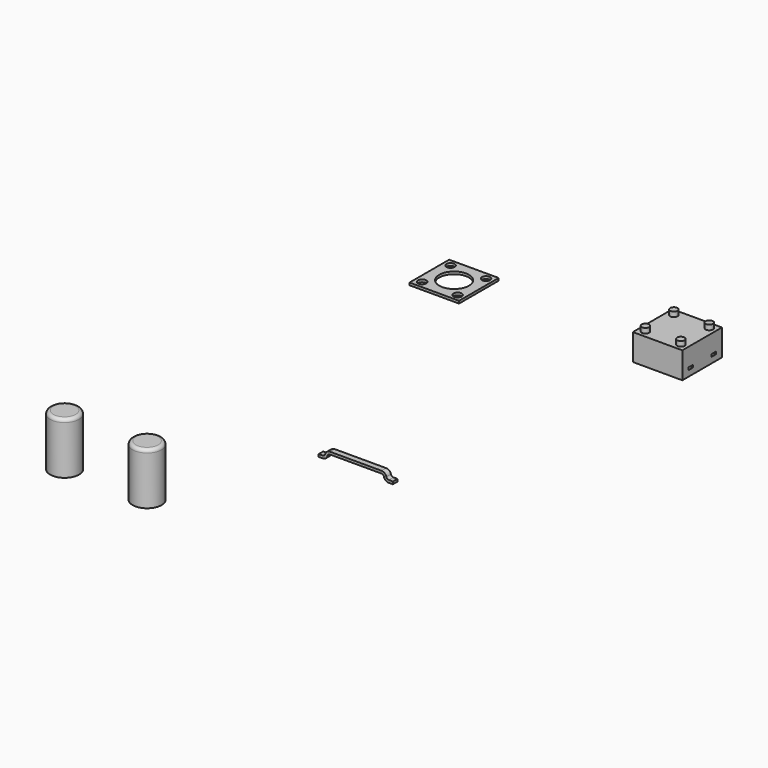
from build123d import *

# Parameters (mm, degrees)
F1_DEPTH  = 0.35
F2_W      = 6
F2_H      = 6
F3_DEPTH  = 3.2
F4_R      = 0.45
F5_DEPTH  = 0.6
F6_W      = 0.7
F6_H      = 0.3
F7_DEPTH  = 20.716501
F8_W      = 6
F8_H      = 6
F9_DEPTH  = 0.3
F10_R     = 0.5
F10_R_2   = 1.8
F11_DEPTH = 3.332784
F12_R     = 1.75
F13_DEPTH = 6.3
F14_R     = 0.4


with BuildPart() as f1:
    # F0 (on Front) → F1 (new body, symmetric)
    with BuildSketch(Plane.XZ):
        with BuildLine():
            Line((-4.5, -2.731784), (-4.5, -3.031784))
            Line((-4.5, -3.031784), (-4.00346, -3.031784))
            ThreePointArc((-4.00346, -3.031784), (-3.617787, -2.891411), (-3.412575, -2.535973))
            Line((-3.412575, -2.535973), (-3.420284, -2.57969))
            ThreePointArc((-3.420284, -2.57969), (-3.317678, -2.401971), (-3.124841, -2.331784))
            Line((-3.124841, -2.331784), (0, -2.331784))
            Line((0, -2.331784), (3.124841, -2.331784))
            ThreePointArc((3.124841, -2.331784), (3.317678, -2.401971), (3.420284, -2.57969))
            Line((3.420284, -2.57969), (3.412575, -2.535973))
            ThreePointArc((3.412575, -2.535973), (3.617787, -2.891411), (4.00346, -3.031784))
            Line((4.00346, -3.031784), (4.5, -3.031784))
            Line((4.5, -3.031784), (4.5, -2.731784))
            Line((4.5, -2.731784), (4.00346, -2.731784))
            ThreePointArc((4.00346, -2.731784), (3.810623, -2.661598), (3.708017, -2.483879))
            Line((3.708017, -2.483879), (3.715726, -2.527595))
            ThreePointArc((3.715726, -2.527595), (3.510514, -2.172158), (3.124841, -2.031784))
            Line((3.124841, -2.031784), (0, -2.031784))
            Line((0, -2.031784), (-3.124841, -2.031784))
            ThreePointArc((-3.124841, -2.031784), (-3.510514, -2.172158), (-3.715726, -2.527595))
            Line((-3.715726, -2.527595), (-3.708017, -2.483879))
            ThreePointArc((-3.708017, -2.483879), (-3.810623, -2.661598), (-4.00346, -2.731784))
            Line((-4.00346, -2.731784), (-4.5, -2.731784))
        make_face()
    extrude(amount=F1_DEPTH, both=True)


with BuildPart() as f3:
    # F2 (on Top) → F3 (new body)
    with BuildSketch(Plane.XY):
        with Locations((13.215501, 31.865703)):
            Rectangle(F2_W, F2_H)
    extrude(amount=F3_DEPTH)

    # F4 (on face) → F5 (join)
    with BuildSketch(Plane.XY.offset(3.2)):
        with Locations((11.065501, 34.015703)):
            Circle(F4_R)
        with Locations((11.065501, 29.715703)):
            Circle(F4_R)
        with Locations((15.365501, 34.015703)):
            Circle(F4_R)
        with Locations((15.365501, 29.715703)):
            Circle(F4_R)
    extrude(amount=F5_DEPTH)

    # F6 (on face) → F7 (cut, through all)
    with BuildSketch(Plane.YZ.offset(16.215501)):
        with Locations((30.115703, 0.85)):
            Rectangle(F6_W, F6_H)
        with Locations((33.615703, 0.85)):
            Rectangle(F6_W, F6_H)
    extrude(amount=-F7_DEPTH, mode=Mode.SUBTRACT)


with BuildPart() as f9:
    # F8 (on Top) → F9 (new body)
    with BuildSketch(Plane.XY):
        with Locations((-13.108936, 30.940943)):
            Rectangle(F8_W, F8_H)
    extrude(amount=F9_DEPTH)

    # F10 (on face) → F11 (cut, through all)
    with BuildSketch(Plane.XY.offset(0.3)):
        with Locations((-15.258936, 28.790943)):
            Circle(F10_R)
        with Locations((-15.258936, 33.090943)):
            Circle(F10_R)
        with Locations((-10.958936, 33.090943)):
            Circle(F10_R)
        with Locations((-10.958936, 28.790943)):
            Circle(F10_R)
        with Locations((-13.108936, 30.940943)):
            Circle(F10_R_2)
    extrude(amount=-F11_DEPTH, mode=Mode.SUBTRACT)


with BuildPart() as f13:
    # F12 (on Top) → F13 (new body)
    with BuildSketch(Plane.XY):
        with Locations((-18.044652, -21.911366)):
            Circle(F12_R)
    extrude(amount=F13_DEPTH)

    # F14
    f14_edges = [f13.edges().sort_by_distance(p)[0] for p in [
        (-19.794652, -21.911366, 6.3),
    ]]
    fillet(f14_edges, radius=F14_R)


with BuildPart() as f15_1:
    # F15: copy of F13
    add(f13.part.moved(Location((10, 0, 0))))


solid = Compound([f1.part, f3.part, f9.part, f13.part, f15_1.part])
